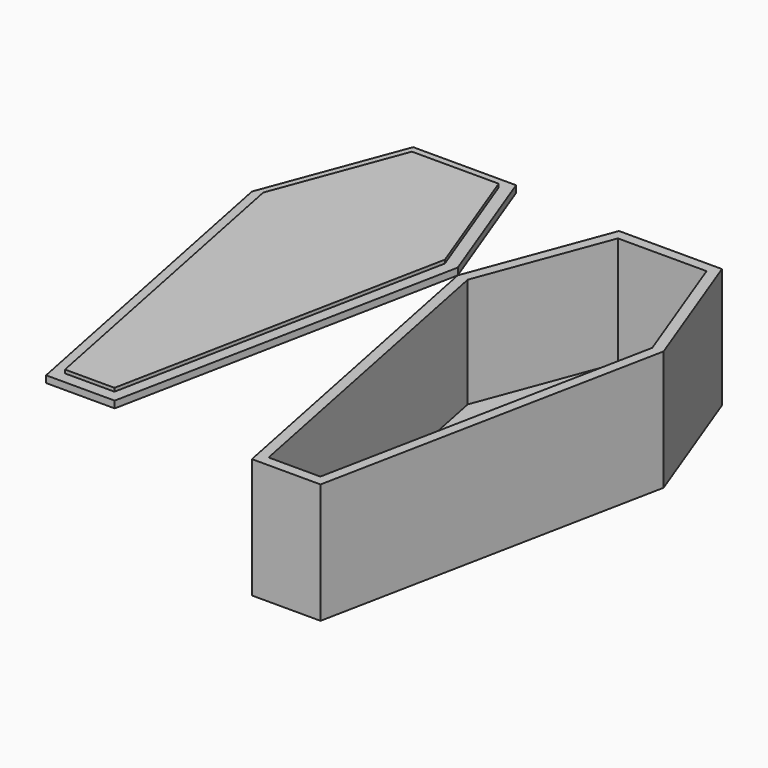
from build123d import *

# Parameters (mm, degrees)
F1_DEPTH = 45.72
F2_DEPTH = 533.4
F3_T     = -45.72
F4_DEPTH = 30.48


with BuildPart() as f1:
    # F0 (on Top) → F1 (new body)
    with BuildSketch(Plane.XY):
        Polygon((-401.860498, 0), (0, 0), (0, 557.78401), (-192.691494, 557.78401), align=None)
        Polygon((0, 557.78401), (0, 0), (401.860498, 0), (192.691494, 557.78401), align=None)
        Polygon((401.860498, 0), (0, 0), (0, -1472.18401), (109.921049, -1472.18401), (403.489206, -4.343222), align=None)
        Polygon((0, -1472.18401), (0, 0), (-401.860498, 0), (-403.489206, -4.343222), (-109.921049, -1472.18401), align=None)
    extrude(amount=F1_DEPTH)



with BuildPart() as f2:
    # F0 (on Top) → F2 (new body)
    with BuildSketch(Plane.XY):
        Polygon((685.8, 609.6), (457.2, 0), (914.4, 0), (914.4, 609.6), align=None)
        Polygon((914.4, 609.6), (914.4, 0), (1371.6, 0), (1143, 609.6), align=None)
        Polygon((1371.6, 0), (914.4, 0), (914.4, -1524), (1066.8, -1524), align=None)
        Polygon((914.4, 0), (457.2, 0), (762, -1524), (914.4, -1524), align=None)
    extrude(amount=-F2_DEPTH)

    # F3
    f3_openings = [f2.faces().sort_by_distance(p)[0] for p in [
        (914.4, -353.848276, 0),
    ]]
    offset(amount=F3_T, openings=f3_openings)


with BuildPart() as f1_1:
    add(f1.part)

    add(f2.part)  # F4 merges F2
    # F0 (on Top) → F4 (join)
    with BuildSketch(Plane.XY):
        Polygon((-192.691494, 557.78401), (0, 557.78401), (0, 609.6), (-228.6, 609.6), (-457.2, 0), (-401.860498, 0), align=None)
        Polygon((0, -1524), (0, -1472.18401), (-109.921049, -1472.18401), (-403.489206, -4.343222), (-401.860498, 0), (-457.2, 0), (-152.4, -1524), align=None)
        Polygon((109.921049, -1472.18401), (0, -1472.18401), (0, -1524), (152.4, -1524), (457.2, 0), (401.860498, 0), (403.489206, -4.343222), align=None)
        Polygon((0, 609.6), (0, 557.78401), (192.691494, 557.78401), (401.860498, 0), (457.2, 0), (228.6, 609.6), align=None)
    extrude(amount=F4_DEPTH)


solid = f1_1.part
